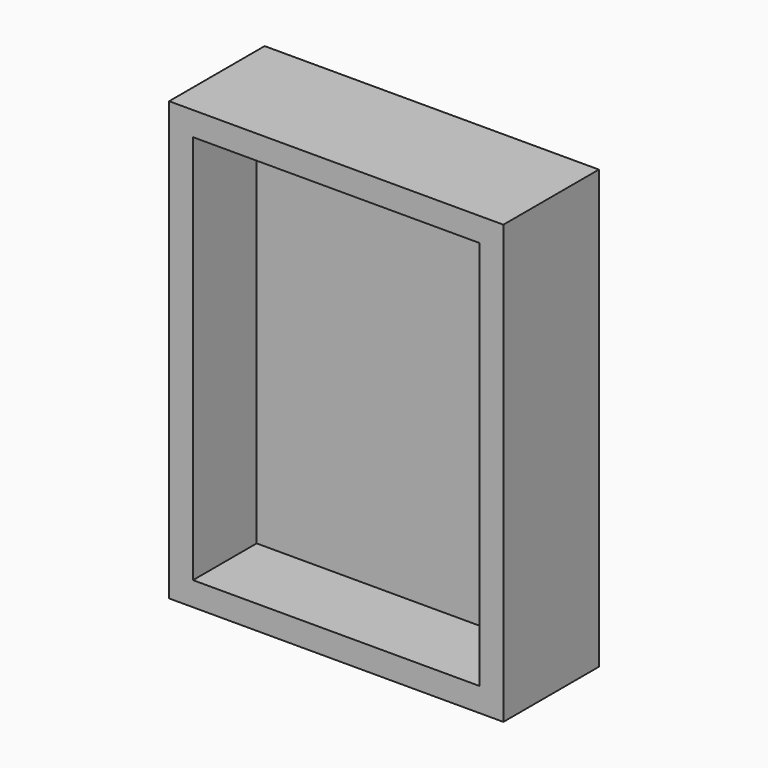
from build123d import *

# Parameters (mm, degrees)
F0_W     = 42
F0_H     = 55
F0_W_2   = 36
F0_H_2   = 49
F1_DEPTH = 5
F2_DEPTH = 10


with BuildPart() as f1:
    # F0 (on Front) → F1 (new body)
    with BuildSketch(Plane.XZ):
        Rectangle(F0_W, F0_H)
        Rectangle(F0_W_2, F0_H_2, mode=Mode.SUBTRACT)
        Rectangle(F0_W_2, F0_H_2)
    extrude(amount=-F1_DEPTH)

    # F0 (on Front) → F2 (join)
    with BuildSketch(Plane.XZ):
        Rectangle(F0_W, F0_H)
        Rectangle(F0_W_2, F0_H_2, mode=Mode.SUBTRACT)
    extrude(amount=F2_DEPTH)


solid = f1.part
